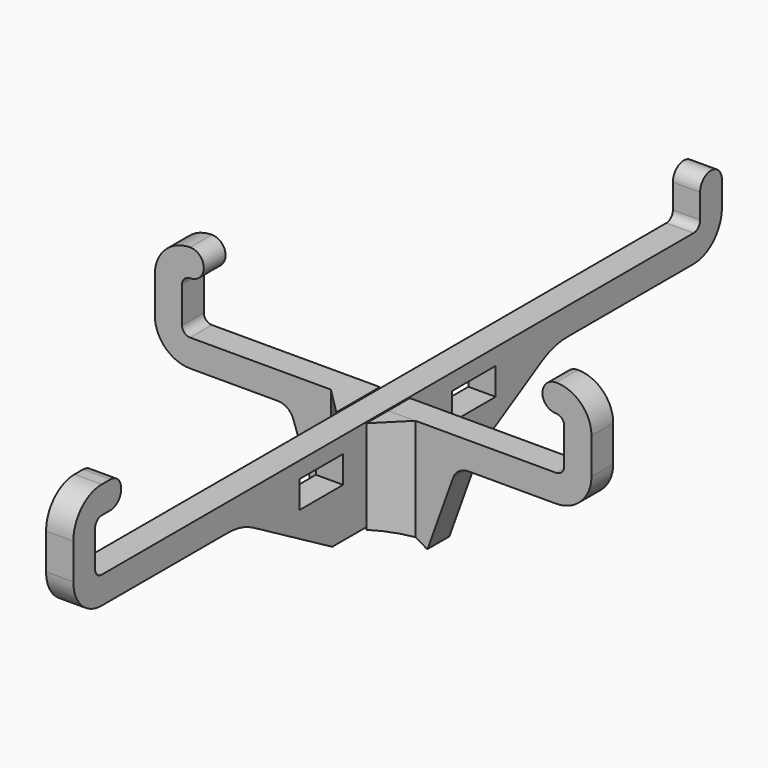
from build123d import *

# Parameters (mm, degrees)
SKETCH_W     = 10
SKETCH_H     = 5
PAD_DEPTH    = 2.5
PAD001_DEPTH = 2.5
PAD002_DEPTH = 20
POCKET_DEPTH = 10


with BuildPart() as vertical:
    # Sketch → Pad (new body, symmetric)
    with BuildSketch(Plane.YZ):
        with BuildLine():
            Line((74.42, 18.5), (74.42, 23))
            ThreePointArc((74.42, 23), (71.92, 25.5), (69.42, 23))
            Line((69.42, 18.499998), (69.42, 23))
            ThreePointArc((67.919993, 17), (68.980657, 17.439337), (69.42, 18.499998))
            Line((-67.919994, 17), (67.919993, 17))
            ThreePointArc((-69.42, 18.499998), (-68.980657, 17.439337), (-67.919994, 17))
            Line((-69.42, 25.090002), (-69.42, 18.499998))
            ThreePointArc((-67.919993, 26.59), (-68.980657, 26.150663), (-69.42, 25.090002))
            Line((-67.919993, 26.59), (-65.919993, 26.59))
            ThreePointArc((-65.919993, 26.59), (-63.419996, 29.090003), (-65.919999, 31.59))
            Line((-65.919999, 31.59), (-67.920001, 31.59))
            ThreePointArc((-67.920001, 31.59), (-72.516194, 29.686195), (-74.42, 25.090002))
            Line((-74.42, 18.499998), (-74.42, 25.090002))
            ThreePointArc((-74.42, 18.499998), (-72.516191, 13.903803), (-67.919994, 12))
            Line((-67.919994, 12), (-38.96077, 12))
            ThreePointArc((-33, 10.392302), (-35.873884, 11.59102), (-38.96077, 12))
            Line((-15, 0), (-33, 10.392302))
            Line((-15, 0), (-2.75, 0))
            Line((-2.75, 0), (-2.75, 8.7))
            Line((-2.75, 8.7), (2.75, 8.7))
            Line((2.75, 8.7), (2.75, 0))
            Line((2.75, 0), (15, 0))
            Line((15, 0), (33, 10.392302))
            ThreePointArc((38.96077, 12), (35.873884, 11.59102), (33, 10.392302))
            Line((38.96077, 12), (67.92, 12))
            ThreePointArc((67.92, 12), (72.516194, 13.903806), (74.42, 18.5))
        make_face()
        with Locations((-17.5, 11.5)):
            Rectangle(SKETCH_W, SKETCH_H, mode=Mode.SUBTRACT)
        with Locations((17.5, 11.5)):
            Rectangle(SKETCH_W, SKETCH_H, mode=Mode.SUBTRACT)
    extrude(amount=PAD_DEPTH, both=True)


with BuildPart() as fusion:
    # Sketch001 → Pad001 (new body, symmetric)
    with BuildSketch(Plane.XZ):
        with BuildLine():
            Line((17.5, 12.000002), (33.585004, 12))
            ThreePointArc((33.585004, 12), (38.181197, 13.903809), (40.085, 18.500004))
            Line((40.085, 25.089998), (40.085, 18.500004))
            ThreePointArc((40.085, 25.089998), (38.181197, 29.686193), (33.585006, 31.590002))
            ThreePointArc((33.585006, 31.590002), (31.085005, 29.090003), (33.585005, 26.590002))
            ThreePointArc((35.085, 25.089998), (34.645664, 26.150659), (33.585005, 26.590002))
            Line((35.085, 18.500005), (35.085, 25.089998))
            ThreePointArc((33.585005, 17), (34.645664, 17.439343), (35.085, 18.500005))
            Line((2.75, 17), (33.585005, 17))
            Line((2.75, 8.3), (2.75, 17))
            Line((-2.75, 8.3), (2.75, 8.3))
            Line((-2.75, 17.000002), (-2.75, 8.3))
            Line((-33.585, 17.000002), (-2.75, 17.000002))
            ThreePointArc((-35.085, 18.500005), (-34.645661, 17.439343), (-33.585, 17.000002))
            Line((-35.085, 18.500005), (-35.085, 25.089998))
            ThreePointArc((-33.585005, 26.590002), (-34.645664, 26.150659), (-35.085, 25.089998))
            ThreePointArc((-33.585005, 26.590002), (-31.085005, 29.090003), (-33.585006, 31.590002))
            ThreePointArc((-33.585006, 31.590002), (-38.181197, 29.686193), (-40.085, 25.089998))
            Line((-40.085, 25.089998), (-40.085, 18.500004))
            ThreePointArc((-40.085, 18.500004), (-38.181197, 13.903811), (-33.585005, 12.000002))
            Line((-33.585005, 12.000002), (-17.5, 12.000002))
            ThreePointArc((-14.676754, 10.014533), (-15.774254, 11.453937), (-17.5, 12.000002))
            Line((-14.676754, 10.014533), (-10, -3))
            Line((-10, -3), (10, -3))
            Line((10, -3), (14.676752, 10.014532))
            ThreePointArc((17.5, 12.000002), (15.774252, 11.453937), (14.676752, 10.014532))
        make_face()
    extrude(amount=PAD001_DEPTH, both=True)

    # Sketch002 → Pad002 (new body)
    with BuildSketch(Plane(origin=(0, 0, 17.000002), x_dir=(-1, 0, 0), z_dir=(0, 0, 1))):
        Polygon((-7.75, 2.5), (-2.75, 7.5), (-2.75, 2.5), align=None)
        Polygon((2.75, 7.5), (2.75, 2.5), (7.75, 2.5), align=None)
    extrude(amount=-PAD002_DEPTH)

    # Sketch003 → Pocket (cut)
    with BuildSketch(Plane(origin=(0, 2.5, 0), x_dir=(1, 0, 0), z_dir=(0, 1, 0))):
        with BuildLine():
            ThreePointArc((-10, 3.138593), (0, 0), (10, 3.138593))
            Line((-10, 3.138593), (10, 3.138593))
        make_face()
    extrude(amount=-POCKET_DEPTH, mode=Mode.SUBTRACT)

    # Fusion: union Vertical
    add(vertical.part)


solid = fusion.part
